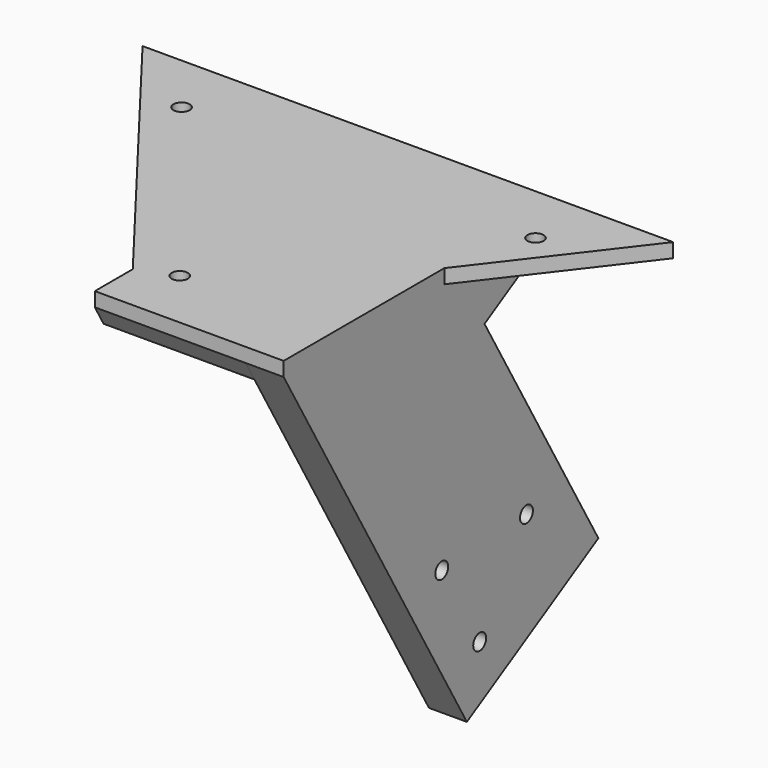
from build123d import *

# Parameters (mm, degrees)
SKETCH027_R     = 1.7
PAD016_DEPTH    = 3
PAD017_DEPTH    = 3
SKETCH029_R     = 1.7
POCKET007_DEPTH = 26.619333
PAD018_DEPTH    = 5
PAD019_DEPTH    = 4
POCKET011_DEPTH = 31.8
POCKET012_DEPTH = 80.219333


with BuildPart() as part:
    # Sketch027 (on Face4 of Binder003) → Pad016 (new body)
    with BuildSketch(Plane(origin=(0, 0, -8.7), x_dir=(1, 0, 0), z_dir=(0, 0, -1))):
        Polygon((63, -0.2), (63, -10.2), (14.581667, -73.3), (126.418333, -73.3), (102.8, -42.519989), (102.8, -0.2), align=None)
        with Locations((70.5, -13.2)):
            Circle(SKETCH027_R, mode=Mode.SUBTRACT)
        with Locations((107.8, -60.3)):
            Circle(SKETCH027_R, mode=Mode.SUBTRACT)
        with Locations((33.2, -60.3)):
            Circle(SKETCH027_R, mode=Mode.SUBTRACT)
    extrude(amount=PAD016_DEPTH)

    # Sketch028 (on Face6 of Pad016) → Pad017 (join)
    with BuildSketch(Plane.YZ.offset(102.8)):
        Polygon((0.2, -11.7), (48.475, -95.314753), (83.116016, -75.314753), (53.116016, -23.353229), (73.3, -11.7), align=None)
    extrude(amount=-PAD017_DEPTH)

    # Sketch029 (on Face14 of Pad017) → Pocket007 (cut, through all)
    with BuildSketch(Plane(origin=(99.8, 0, 0), x_dir=(0, -1, 0), z_dir=(-1, 0, 0))):
        with Locations((-51.846002, -81.821499)):
            Circle(SKETCH029_R)
        with Locations((-41.846002, -64.500991)):
            Circle(SKETCH029_R)
        with Locations((-64.16651, -63.161245)):
            Circle(SKETCH029_R)
    extrude(amount=-POCKET007_DEPTH, mode=Mode.SUBTRACT)

    # Sketch030 (on Face14 of Pocket007) → Pad018 (join)
    with BuildSketch(Plane(origin=(99.8, 0, 0), x_dir=(0, -1, 0), z_dir=(-1, 0, 0))):
        Polygon((-0.2, -11.7), (-48.475, -95.314753), (-51.073076, -93.814753), (-3.664102, -11.7), align=None)
        Polygon((-42.92392, -11.7), (-80.51794, -76.814753), (-83.116016, -75.314753), (-53.116016, -23.353229), (-73.3, -11.7), align=None)
        Polygon((-21.56196, -11.7), (-64.49647, -86.064753), (-67.094546, -84.564753), (-25.026062, -11.7), align=None)
    extrude(amount=PAD018_DEPTH)

    # Sketch031 (on Face5 of Pad018) → Pad019 (join)
    with BuildSketch(Plane(origin=(0, 0, -11.7), x_dir=(1, 0, 0), z_dir=(0, 0, -1))):
        Polygon((94.8, -3.664102), (66, -3.664102), (66, -11.218363), (20.665065, -70.3), (57.401987, -70.3), (94.8, -21.56196), (94.8, -25.026062), (60.060085, -70.3), (94.8, -70.3), (94.8, -73.3), (14.581667, -73.3), (63, -10.2), (63, -0.2), (94.8, -0.2), align=None)
    extrude(amount=PAD019_DEPTH)

    # Sketch036 (on Face16 of Pad019) → Pocket011 (cut)
    with BuildSketch(Plane.YZ.offset(94.8)):
        Polygon((2.509401, -15.7), (0.2, -15.7), (0.2, -11.7), align=None)
        Polygon((23.871361, -15.7), (21.56196, -11.7), (21.56196, -15.7), align=None)
    extrude(amount=-POCKET011_DEPTH, mode=Mode.SUBTRACT)

    # Sketch037 (on Face30 of Pocket011) → Pocket012 (cut, through all)
    with BuildSketch(Plane.YZ.offset(94.8)):
        Polygon((73.3, -11.7), (73.3, -15.7), (66.371797, -15.7), align=None)
    extrude(amount=-POCKET012_DEPTH, mode=Mode.SUBTRACT)


solid = part.part
